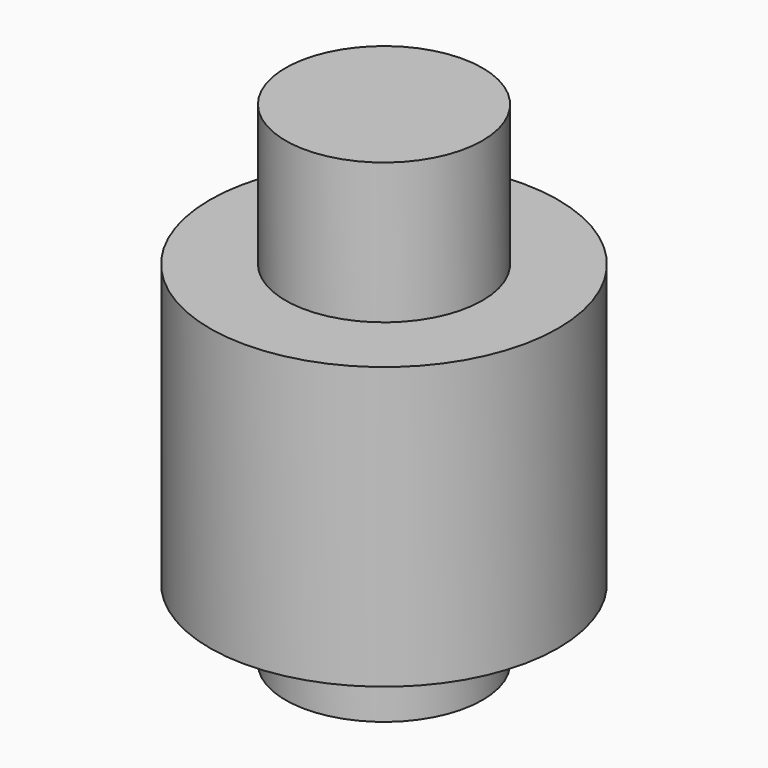
from build123d import *

# Parameters (mm, degrees)
F0_R     = 2.475
F0_R_2   = 1.5
F1_DEPTH = 4
F2_R     = 1.4
F3_DEPTH = 2
F4_R     = 1.4
F5_DEPTH = 1


with BuildPart() as f1:
    # F0 (on Top) → F1 (new body)
    with BuildSketch(Plane.XY):
        Circle(F0_R)
        Circle(F0_R_2, mode=Mode.SUBTRACT)
        Circle(F0_R_2)
    extrude(amount=F1_DEPTH)

    # F2 (on face) → F3 (join)
    with BuildSketch(Plane.XY.offset(4)):
        Circle(F2_R)
    extrude(amount=F3_DEPTH)

    # F4 (on face) → F5 (join)
    with BuildSketch(Plane(origin=(0, 0, 0), x_dir=(1, 0, 0), z_dir=(0, 0, -1))):
        Circle(F4_R)
    extrude(amount=F5_DEPTH)


solid = f1.part
